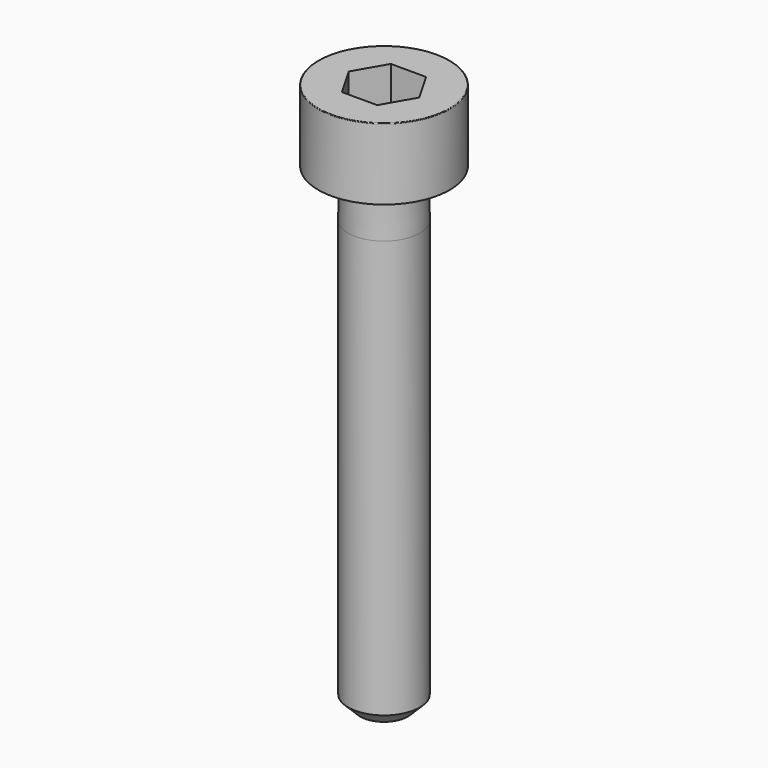
from build123d import *

# Parameters (mm, degrees)
POCKET_DEPTH = 2.56


with BuildPart() as part:
    # Sketch → Revolve (revolve)
    with BuildSketch(Plane.YZ):
        with BuildLine():
            Line((1.499, 0), (2.75, 0))
            Line((2.75, 0), (2.75, 2.97229))
            ThreePointArc((2.75, 2.97229), (2.741884, 2.991884), (2.72229, 3))
            Line((2.72229, 3), (0, 3))
            Line((0, -20), (0, 3))
            Line((1, -20), (0, -20))
            Line((1.5, -19.5), (1, -20))
            Line((1.5, -2), (1.5, -19.5))
            Line((1.499, 0), (1.5, -2))
        make_face()
    revolve(axis=Axis((0, 0, 0), (0, 0, 1)))

    # Sketch001 → Pocket (cut)
    with BuildSketch(Plane.XY.offset(3)):
        Polygon((1.478017, 0), (0.739008, 1.28), (-0.739008, 1.28), (-1.478017, 0), (-0.739008, -1.28), (0.739008, -1.28), align=None)
    extrude(amount=-POCKET_DEPTH, mode=Mode.SUBTRACT)


solid = part.part
